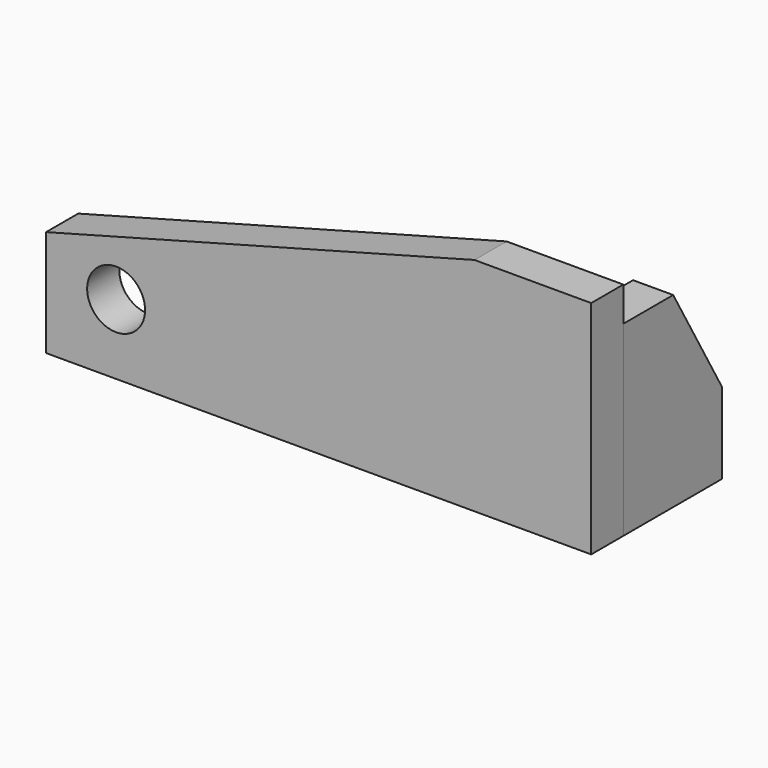
from build123d import *

# Parameters (mm, degrees)
F0_R     = 7.874
F1_DEPTH = 10.922
F3_DEPTH = 10.922
F5_DEPTH = 10.922


with BuildPart() as f1:
    # F0 (on Front) → F1 (new body)
    with BuildSketch(Plane.XZ):
        Polygon((-148.289199, 0), (0, 0), (0, 60.198), (-31.75, 60.198), (-148.289199, 28.971416), align=None)
        with Locations((-129.239199, 19.05)):
            Circle(F0_R, mode=Mode.SUBTRACT)
    extrude(amount=F1_DEPTH)


with BuildPart() as f3:
    # F2 (on Right) → F3 (new body)
    with BuildSketch(Plane.YZ):
        Polygon((0, 50.8), (0, 0), (33.528, 0), (33.528, 22.098), (16.956893, 50.8), align=None)
    extrude(amount=-F3_DEPTH)


with BuildPart() as f5:
    # F4 (on Top) → F5 (new body)
    with BuildSketch(Plane.XY):
        Polygon((-63.5, 0), (-10.922, 0), (-10.922, 33.528), align=None)
    extrude(amount=F5_DEPTH)


solid = Compound([f1.part, f3.part, f5.part])
